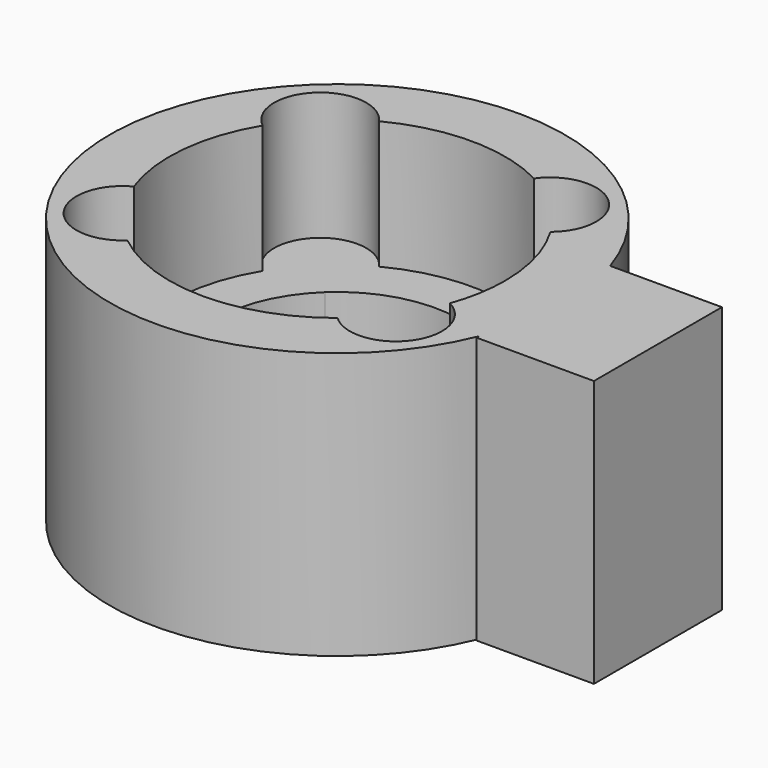
from build123d import *

# Parameters (mm, degrees)
F0_R     = 10.668
F1_DEPTH = 12.5
F3_DEPTH = 6
F4_DEPTH = 12.5
F5_W     = 5.5
F5_H     = 7.5
F6_DEPTH = 12.5


with BuildPart() as f1:
    # F0 (on Top) → F1 (new body)
    with BuildSketch(Plane.XY):
        Circle(F0_R)
    extrude(amount=F1_DEPTH)

    # F2 (on face) → F3 (cut)
    with BuildSketch(Plane.XY.offset(12.5)):
        with BuildLine():
            ThreePointArc((7.4103049922, -2.6621900614), (7.7572101141, -1.3511355394), (7.874, 0))
            ThreePointArc((7.874, 0), (7.5870287926, 2.1063879275), (6.7470327404, 4.0592394854))
            ThreePointArc((6.7470327404, 4.0592394854), (5.3099885026, 3.5816895419), (3.9127477219, 4.1655288097))
            ThreePointArc((3.9127477219, 4.1655288097), (5.2451205053, 2.2693470172), (5.715, 0))
            ThreePointArc((5.715, 0), (5.4426248431, -1.7432899407), (4.6514620061, -3.3204105477))
            ThreePointArc((4.6514620061, -3.3204105477), (5.9076375819, -2.4747315537), (7.4103049922, -2.6621900614))
        make_face()
        with BuildLine():
            ThreePointArc((3.9127477219, 4.1655288097), (5.3099885026, 3.5816895419), (6.7470327404, 4.0592394854))
            ThreePointArc((6.7470327404, 4.0592394854), (5.3908968998, 5.7391729906), (3.6294620987, 6.9876234067))
            ThreePointArc((3.6294620987, 6.9876234067), (3.2426928667, 5.5235334018), (3.9127477219, 4.1655288097))
        make_face()
        with BuildLine():
            ThreePointArc((3.6294620987, 6.9876234067), (5.3908968998, 5.7391729906), (6.7470327404, 4.0592394854))
            ThreePointArc((6.7470327404, 4.0592394854), (7.3388674181, 4.8082101234), (7.5498968998, 5.7391729906))
            ThreePointArc((7.5498968998, 5.7391729906), (6.0460088233, 7.7963821116), (3.6294620987, 6.9876234067))
        make_face()
        with BuildLine():
            ThreePointArc((8.5676809877, -4.5747878637), (8.2558121722, -3.4570278774), (7.4103049922, -2.6621900614))
            ThreePointArc((7.4103049922, -2.6621900614), (6.4086809877, -4.5747878637), (4.9252388756, -6.1434434984))
            ThreePointArc((4.9252388756, -6.1434434984), (7.2626509755, -6.557719093), (8.5676809877, -4.5747878637))
        make_face()
        with BuildLine():
            ThreePointArc((4.9252388756, -6.1434434984), (6.4086809877, -4.5747878637), (7.4103049922, -2.6621900614))
            ThreePointArc((7.4103049922, -2.6621900614), (5.9076375819, -2.4747315537), (4.6514620061, -3.3204105477))
            ThreePointArc((4.6514620061, -3.3204105477), (4.2597626921, -4.7831893008), (4.9252388756, -6.1434434984))
        make_face()
        with BuildLine():
            ThreePointArc((3.9127477219, 4.1655288097), (3.2426928667, 5.5235334018), (3.6294620987, 6.9876234067))
            ThreePointArc((3.6294620987, 6.9876234067), (0, 7.874), (-3.6294620987, 6.9876234067))
            ThreePointArc((-3.6294620987, 6.9876234067), (-3.3336877788, 6.394284914), (-3.2318968998, 5.7391729906))
            ThreePointArc((-3.2318968998, 5.7391729906), (-3.4094069377, 4.8818641023), (-3.9127477844, 4.165528751))
            ThreePointArc((-3.9127477844, 4.165528751), (-4.29e-08, 5.715), (3.9127477219, 4.1655288097))
        make_face()
        with BuildLine():
            ThreePointArc((-4.9252388756, -6.1434434984), (0, -7.874), (4.9252388756, -6.1434434984))
            ThreePointArc((4.9252388756, -6.1434434984), (4.2597626921, -4.7831893008), (4.6514620061, -3.3204105477))
            ThreePointArc((4.6514620061, -3.3204105477), (6.6e-09, -5.715), (-4.6514619984, -3.3204105585))
            ThreePointArc((-4.6514619984, -3.3204105585), (-4.3525782668, -3.9162116714), (-4.2496809877, -4.5747878637))
            ThreePointArc((-4.2496809877, -4.5747878637), (-4.4257497584, -5.4287578515), (-4.9252388756, -6.1434434984))
        make_face()
        with BuildLine():
            ThreePointArc((-3.2318968998, 5.7391729906), (-3.3336877788, 6.394284914), (-3.6294620987, 6.9876234067))
            ThreePointArc((-3.6294620987, 6.9876234067), (-5.3908968998, 5.7391729906), (-6.7470327404, 4.0592394854))
            ThreePointArc((-6.7470327404, 4.0592394854), (-5.3099885454, 3.5816895403), (-3.9127477844, 4.165528751))
            ThreePointArc((-3.9127477844, 4.165528751), (-3.4094069377, 4.8818641023), (-3.2318968998, 5.7391729906))
        make_face()
        with BuildLine():
            ThreePointArc((-6.7470327404, 4.0592394854), (-5.3908968998, 5.7391729906), (-3.6294620987, 6.9876234067))
            ThreePointArc((-3.6294620987, 6.9876234067), (-6.8690460498, 7.3128171977), (-6.7470327404, 4.0592394854))
        make_face()
        with BuildLine():
            ThreePointArc((-4.6514619984, -3.3204105585), (-5.6873758569, 0.5612315586), (-3.9127477844, 4.165528751))
            ThreePointArc((-3.9127477844, 4.165528751), (-5.3099885454, 3.5816895403), (-6.7470327404, 4.0592394854))
            ThreePointArc((-6.7470327404, 4.0592394854), (-7.8359400653, 0.7732524124), (-7.4103049922, -2.6621900614))
            ThreePointArc((-7.4103049922, -2.6621900614), (-5.9076375754, -2.4747315552), (-4.6514619984, -3.3204105585))
        make_face()
        with BuildLine():
            ThreePointArc((-7.4103049922, -2.6621900614), (-8.1658999682, -5.8291651812), (-4.9252388756, -6.1434434984))
            ThreePointArc((-4.9252388756, -6.1434434984), (-6.4086809877, -4.5747878637), (-7.4103049922, -2.6621900614))
        make_face()
        with BuildLine():
            ThreePointArc((-7.4103049922, -2.6621900614), (-6.4086809877, -4.5747878637), (-4.9252388756, -6.1434434984))
            ThreePointArc((-4.9252388756, -6.1434434984), (-4.4257497584, -5.4287578515), (-4.2496809877, -4.5747878637))
            ThreePointArc((-4.2496809877, -4.5747878637), (-4.3525782668, -3.9162116714), (-4.6514619984, -3.3204105585))
            ThreePointArc((-4.6514619984, -3.3204105585), (-5.9076375754, -2.4747315552), (-7.4103049922, -2.6621900614))
        make_face()
    extrude(amount=-F3_DEPTH, mode=Mode.SUBTRACT)

    # F4 (cut): a face of the model
    f4_faces = [f1.faces().sort_by_distance(p)[0] for p in [
        (0, 0, 12.5),
    ]]
    extrude(f4_faces, amount=-F4_DEPTH, mode=Mode.SUBTRACT)

    # F5 (on Top) → F6 (join)
    with BuildSketch(Plane.XY):
        with Locations((12.6280929255, -0.4317085259)):
            Rectangle(F5_W, F5_H)
    extrude(amount=F6_DEPTH)


solid = f1.part
